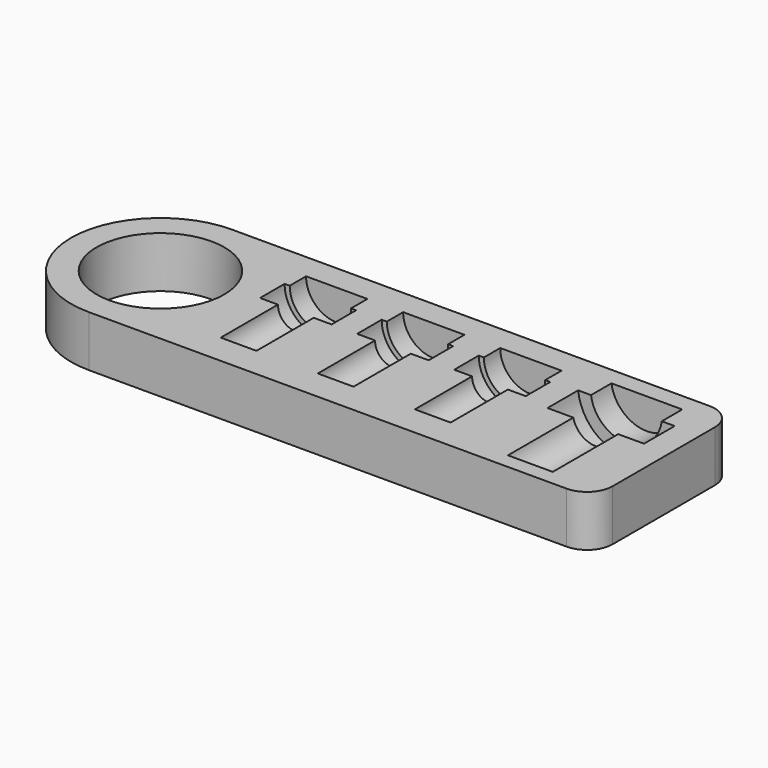
from build123d import *

# Parameters (mm, degrees)
F0_R     = 12.5
F1_DEPTH = 10


with BuildPart() as f1:
    # F0 (on Top) → F1 (new body)
    with BuildSketch(Plane.XY):
        with BuildLine():
            ThreePointArc((0, 17.5), (5.1256313292, 5.1256313292), (17.5, 0))
            Line((17.5, 0), (111, 0))
            ThreePointArc((111, 0), (114.5355339059, 1.4644660941), (116, 5))
            Line((116, 5), (116, 30))
            ThreePointArc((116, 30), (114.5355339059, 33.5355339059), (111, 35))
            Line((111, 35), (17.5, 35))
            ThreePointArc((17.5, 35), (5.1256313292, 29.8743686708), (0, 17.5))
        make_face()
        with Locations((17.5, 17.5)):
            Circle(F0_R, mode=Mode.SUBTRACT)
    extrude(amount=F1_DEPTH)

    # F2 (on face) → F3 (revolve, cut)
    with BuildSketch(Plane.XY.offset(10)):
        Polygon((42, 20), (42, 6), (45.5, 6), (45.5, 20), (49, 20), (49, 26), (48, 26), (48, 30), (42, 30), (42, 26), align=None)
    revolve(axis=Axis((42, 13, 10), (0, 1, 0)), mode=Mode.SUBTRACT)

    # F2 (on face) → F4 (revolve, cut)
    with BuildSketch(Plane.XY.offset(10)):
        Polygon((61, 20), (61, 6), (64.5, 6), (64.5, 20), (68, 20), (68, 26), (67, 26), (67, 30), (61, 30), (61, 26), align=None)
    revolve(axis=Axis((61, 13, 10), (0, 1, 0)), mode=Mode.SUBTRACT)

    # F2 (on face) → F5 (revolve, cut)
    with BuildSketch(Plane.XY.offset(10)):
        Polygon((80, 20), (80, 6), (83.5, 6), (83.5, 20), (87, 20), (87, 26), (86, 26), (86, 30), (80, 30), (80, 26), align=None)
    revolve(axis=Axis((80, 13, 10), (0, 1, 0)), mode=Mode.SUBTRACT)

    # F7 (on offset) → F8 (revolve, cut)
    with BuildSketch(Plane.XY.offset(11)):
        Polygon((101.5, 19), (101.5, 3), (106, 3), (106, 19), (111, 19), (111, 26.5), (108.5, 26.5), (108.5, 31.5), (101.5, 31.5), (101.5, 26.5), align=None)
    revolve(axis=Axis((101.5, 11, 11), (0, 1, 0)), mode=Mode.SUBTRACT)


solid = f1.part
